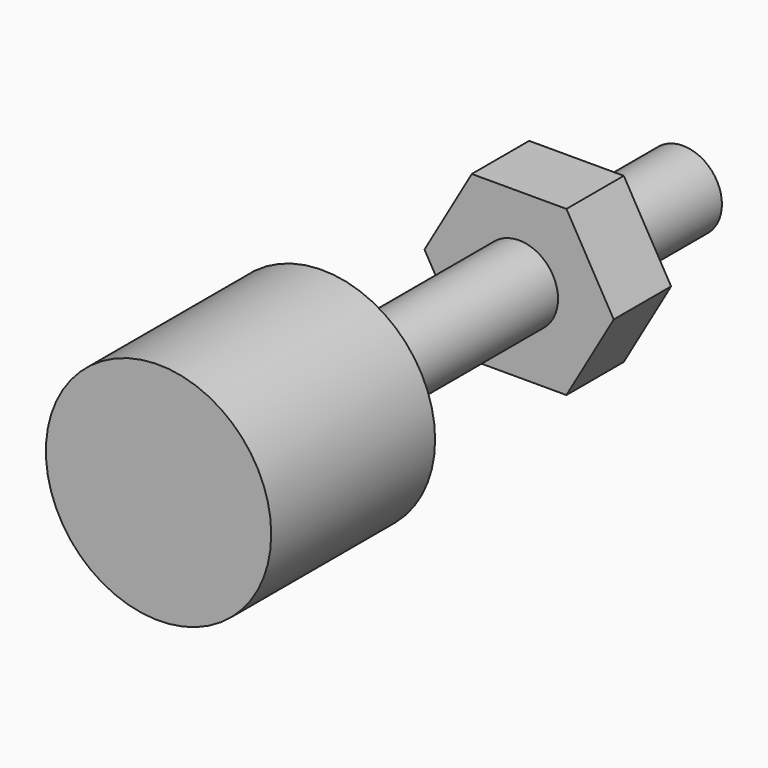
from build123d import *

# Parameters (mm, degrees)
F0_R     = 5.5
F0_R_2   = 1.9
F1_DEPTH = 10
F2_DEPTH = 22
F4_START = -6.5
F4_DEPTH = 3.5


with BuildPart() as f1:
    # F0 (on Front) → F1 (new body)
    with BuildSketch(Plane.XZ):
        Circle(F0_R)
        Circle(F0_R_2, mode=Mode.SUBTRACT)
        Circle(F0_R_2)
    extrude(amount=F1_DEPTH)

    # F0 (on Front) → F2 (join)
    with BuildSketch(Plane.XZ):
        Circle(F0_R_2)
    extrude(amount=-F2_DEPTH)

    # F3 (on face) → F4 (join)
    with BuildSketch(Plane(origin=(0, 22, 0), x_dir=(-1, 0, 0), z_dir=(0, 1, 0)).offset(F4_START)):
        Polygon((2.3094010768, 4), (-2.3094010768, 4), (-4.6188021535, 0), (-2.3094010768, -4), (2.3094010768, -4), (4.6188021535, 0), align=None)
    extrude(amount=-F4_DEPTH)


solid = f1.part
